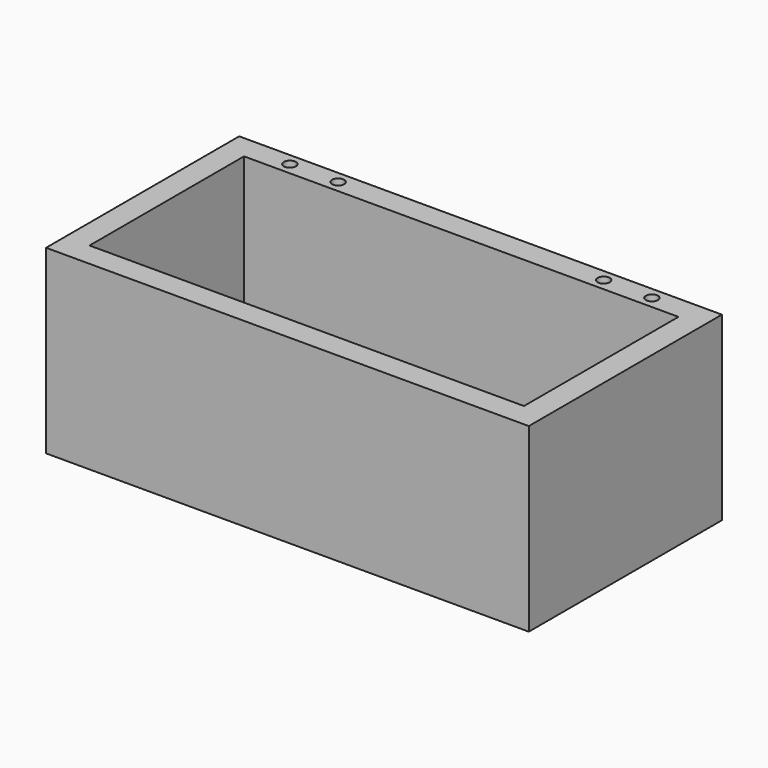
from build123d import *

# Parameters (mm, degrees)
F0_W     = 400
F0_H     = 200
F1_DEPTH = 150
F2_W     = 360
F2_H     = 160
F3_DEPTH = 130
F4_R     = 5
F5_DEPTH = 20


with BuildPart() as f1:
    # F0 (on Top) → F1 (new body)
    with BuildSketch(Plane.XY):
        Rectangle(F0_W, F0_H)
    extrude(amount=F1_DEPTH)

    # F2 (on face) → F3 (cut)
    with BuildSketch(Plane.XY.offset(150)):
        Rectangle(F2_W, F2_H)
    extrude(amount=-F3_DEPTH, mode=Mode.SUBTRACT)

    # F4 (on face) → F5 (cut)
    with BuildSketch(Plane.XY.offset(150)):
        with Locations((-150, 90)):
            Circle(F4_R)
        with Locations((-110, 90)):
            Circle(F4_R)
        with Locations((110, 90)):
            Circle(F4_R)
        with Locations((150, 90)):
            Circle(F4_R)
    extrude(amount=-F5_DEPTH, mode=Mode.SUBTRACT)


solid = f1.part
